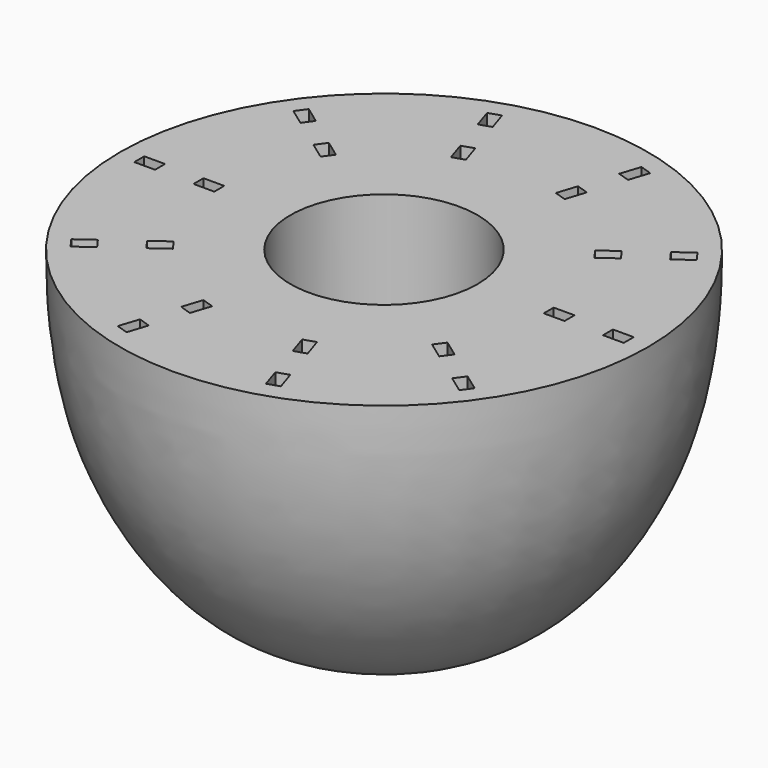
from build123d import *

# Parameters (mm, degrees)
F2_R     = 22.5
F3_DEPTH = 70
F4_W     = 5
F4_H     = 3
F5_DEPTH = 6


with BuildPart() as f1:
    # F0 (on Front) → F1 (revolve)
    with BuildSketch(Plane.XZ):
        with BuildLine():
            Line((63.5, 0), (0, 0))
            Line((0, 0), (0, -80))
            add(Edge.make_bspline(
                [(0, -80), (10.2409981191, -80.0559148192), (34.8220828583, -78.7447738141), (62.2798344564, -39.0297563597), (63.5, -9.5845087473), (63.5, 0)],
                knots=[0, 0, 0, 0, 0.3058329124, 0.6687596422, 1, 1, 1, 1], degree=3))
        make_face()
    revolve(axis=Axis((0, 0, -40), (0, 0, -1)))

    # F2 (on face) → F3 (cut)
    with BuildSketch(Plane.XY):
        Circle(F2_R)
    extrude(amount=-F3_DEPTH, mode=Mode.SUBTRACT)

    # F4 (on Top) → F5 (cut)
    with BuildSketch(Plane.XY):
        with Locations((-42.125, 0)):
            Rectangle(F4_W, F4_H)
        with Locations((-56.375, 0)):
            Rectangle(F4_W, F4_H)
        Polygon((-46.7491976654, -35.8193822203), (-42.7041126935, -32.8804559588), (-44.4674684504, -30.4534049757), (-48.5125534223, -33.3923312372), align=None)
        Polygon((-31.1756205237, -24.5045161137), (-32.9389762805, -22.0774651305), (-36.9840612524, -25.016391392), (-35.2207054955, -27.4434423751), align=None)
        Polygon((-16.7667907694, -56.4569778884), (-15.2217057975, -51.701695307), (-18.0748753464, -50.7746443238), (-19.6199603183, -55.5299269053), align=None)
        Polygon((-10.8182136277, -38.1491399498), (-13.6713831766, -37.2220889666), (-15.2164681484, -41.9773715481), (-12.3632985995, -42.9044225312), align=None)
        Polygon((19.6199603183, -55.5299269053), (18.0748753464, -50.7746443238), (15.2217057975, -51.701695307), (16.7667907694, -56.4569778884), align=None)
        Polygon((13.6713831766, -37.2220889666), (10.8182136277, -38.1491399498), (12.3632985995, -42.9044225312), (15.2164681484, -41.9773715481), align=None)
        Polygon((48.5125534223, -33.3923312372), (44.4674684504, -30.4534049757), (42.7041126935, -32.8804559588), (46.7491976654, -35.8193822203), align=None)
        Polygon((32.9389762805, -22.0774651305), (31.1756205237, -24.5045161137), (35.2207054955, -27.4434423751), (36.9840612524, -25.016391392), align=None)
        with Locations((56.375, 0)):
            Rectangle(F4_W, F4_H)
        with Locations((42.125, 0)):
            Rectangle(F4_W, F4_H)
        Polygon((46.7491976654, 35.8193822203), (42.7041126935, 32.8804559588), (44.4674684504, 30.4534049757), (48.5125534223, 33.3923312372), align=None)
        Polygon((31.1756205237, 24.5045161137), (32.9389762805, 22.0774651305), (36.9840612524, 25.016391392), (35.2207054955, 27.4434423751), align=None)
        Polygon((16.7667907694, 56.4569778884), (15.2217057975, 51.701695307), (18.0748753464, 50.7746443238), (19.6199603183, 55.5299269053), align=None)
        Polygon((10.8182136277, 38.1491399498), (13.6713831766, 37.2220889666), (15.2164681484, 41.9773715481), (12.3632985995, 42.9044225312), align=None)
        Polygon((-19.6199603183, 55.5299269053), (-18.0748753464, 50.7746443238), (-15.2217057975, 51.701695307), (-16.7667907694, 56.4569778884), align=None)
        Polygon((-13.6713831766, 37.2220889666), (-10.8182136277, 38.1491399498), (-12.3632985995, 42.9044225312), (-15.2164681484, 41.9773715481), align=None)
        Polygon((-48.5125534223, 33.3923312372), (-44.4674684504, 30.4534049757), (-42.7041126935, 32.8804559588), (-46.7491976654, 35.8193822203), align=None)
        Polygon((-32.9389762805, 22.0774651305), (-31.1756205237, 24.5045161137), (-35.2207054955, 27.4434423751), (-36.9840612524, 25.016391392), align=None)
    extrude(amount=-F5_DEPTH, mode=Mode.SUBTRACT)


solid = f1.part
